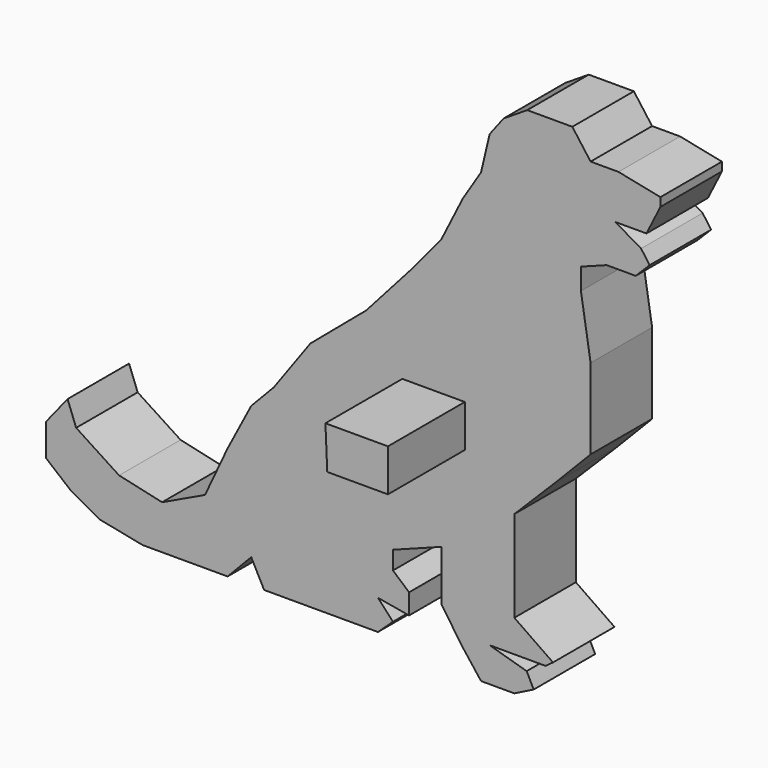
from build123d import *

# Parameters (mm, degrees)
F1_DEPTH = 10.16
F3_DEPTH = 12.7


with BuildPart() as f1:
    # F0 (on Front) → F1 (new body)
    with BuildSketch(Plane.XZ):
        Polygon((-43.755643, 90.828305), (-46.877941, 88.841388), (-48.722932, 86.428699), (-49.858313, 81.603329), (-52.271002, 77.771422), (-55.109454, 72.094509), (-59.367137, 66.985293), (-65.044043, 60.598771), (-72.424024, 54.354175), (-77.249394, 47.683807), (-80.22977, 44.561509), (-83.352068, 38.600758), (-86.332443, 32.214235), (-92.009354, 29.517705), (-97.686262, 30.795009), (-103.363165, 34.484999), (-104.49855, 37.465376), (-107.337004, 33.917309), (-107.337004, 29.659627), (-104.072782, 26.963097), (-100.240867, 24.834256), (-94.56396, 23.698875), (-88.603207, 23.698875), (-83.352068, 23.698875), (-80.22977, 26.963097), (-78.526698, 23.698875), (-70.153258, 23.698875), (-63.482894, 23.698875), (-61.495977, 25.543871), (-63.482894, 27.683625), (-59.367137, 26.963097), (-59.367137, 29.659627), (-61.495977, 31.504622), (-61.495977, 33.917309), (-55.109454, 36.329995), (-55.109454, 29.659627), (-52.271002, 25.543871), (-49.858313, 22.421573), (-45.458715, 22.421573), (-42.904107, 23.698875), (-43.826604, 25.543871), (-48.722932, 26.963097), (-41.342954, 26.963097), (-40.349492, 27.683625), (-45.458715, 31.220777), (-45.458715, 36.329995), (-45.458715, 43.284205), (-39.923728, 48.819191), (-35.382203, 53.502639), (-35.382203, 58.611854), (-35.382203, 64.146841), (-36.659504, 72.094509), (-36.659504, 74.932962), (-33.25336, 76.210269), (-29.421452, 76.210269), (-27.576454, 78.05526), (-28.711836, 79.616412), (-32.117979, 81.603329), (-28.002219, 81.603329), (-26.157228, 85.293318), (-26.157228, 86.428699), (-31.692215, 87.56408), (-35.382203, 87.56408), (-37.794885, 90.828305), align=None)
    extrude(amount=F1_DEPTH)

    # F2 (on face) → F3 (join)
    with BuildSketch(Plane.XZ.offset(10.16)):
        Polygon((-52.004732, 54.195438), (-60.263611, 54.195438), (-60.020704, 48.608549), (-52.004732, 48.608549), align=None)
    extrude(amount=F3_DEPTH)


solid = f1.part
